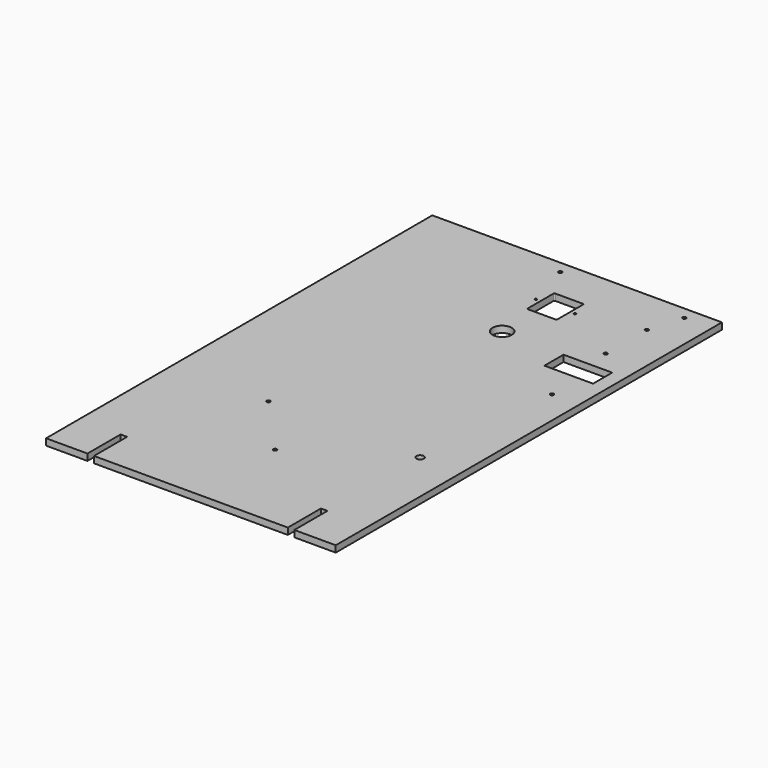
from build123d import *

# Parameters (mm, degrees)
F0_R     = 1.6002
F0_R_2   = 3.3782
F0_W     = 44.8
F0_H     = 22
F0_R_3   = 8.873689
F0_R_4   = 1.0033
F1_DEPTH = 6


with BuildPart() as f1:
    # F0 (on Top) → F1 (new body)
    with BuildSketch(Plane.XY):
        Polygon((155.197096, 268.007227), (-111.502904, 268.007227), (-111.502904, -176.492773), (-73.402904, -176.492773), (-73.402904, -138.392773), (-67.402904, -138.392773), (-67.402904, -176.492773), (111.097096, -176.492773), (111.097096, -138.392773), (117.097096, -138.392773), (117.097096, -176.492773), (155.197096, -176.492773), align=None)
        with Locations((-22.602904, -31.712773)):
            Circle(F0_R, mode=Mode.SUBTRACT)
        with Locations((28.197096, -87.592773)):
            Circle(F0_R, mode=Mode.SUBTRACT)
        with Locations((117.097096, -31.712773)):
            Circle(F0_R_2, mode=Mode.SUBTRACT)
        with Locations((15.497096, 256.577227)):
            Circle(F0_R, mode=Mode.SUBTRACT)
        with Locations((120.097096, 146.581596)):
            Rectangle(F0_W, F0_H, mode=Mode.SUBTRACT)
        with Locations((129.797096, 104.177227)):
            Circle(F0_R, mode=Mode.SUBTRACT)
        with Locations((40.547096, 158.366844)):
            Circle(F0_R_3, mode=Mode.SUBTRACT)
        with Locations((28.297096, 212.476226)):
            Circle(F0_R_4, mode=Mode.SUBTRACT)
        with BuildLine():
            ThreePointArc((32.647096, 227.176226), (32.939989, 227.883333), (33.647096, 228.176226))
            Line((33.647096, 228.176226), (58.947096, 228.176226))
            ThreePointArc((58.947096, 228.176226), (59.654203, 227.883333), (59.947096, 227.176226))
            Line((59.947096, 227.176226), (59.947096, 197.776226))
            ThreePointArc((59.947096, 197.776226), (59.654203, 197.069119), (58.947096, 196.776226))
            Line((58.947096, 196.776226), (33.647096, 196.776226))
            ThreePointArc((33.647096, 196.776226), (32.939989, 197.069119), (32.647096, 197.776226))
            Line((32.647096, 197.776226), (32.647096, 227.176226))
        make_face(mode=Mode.SUBTRACT)
        with Locations((64.297096, 212.476226)):
            Circle(F0_R_4, mode=Mode.SUBTRACT)
        with Locations((120.272096, 177.736496)):
            Circle(F0_R, mode=Mode.SUBTRACT)
        with Locations((120.272096, 225.234496)):
            Circle(F0_R, mode=Mode.SUBTRACT)
        with Locations((129.797096, 256.577227)):
            Circle(F0_R, mode=Mode.SUBTRACT)
    extrude(amount=F1_DEPTH)


solid = f1.part
